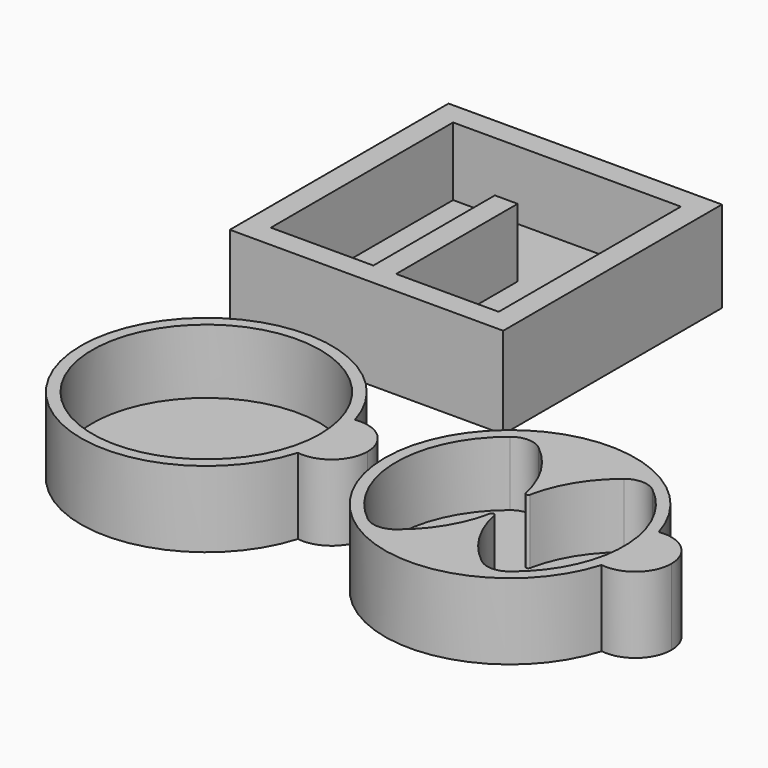
from build123d import *

# Parameters (mm, degrees)
F1_DEPTH  = 10
F3_R      = 15
F4_DEPTH  = 8.5
F7_DEPTH  = 8.5
F8_W      = 36
F8_H      = 36
F8_W_2    = 3
F8_H_2    = 20
F9_DEPTH  = 12
F10_DEPTH = 3


with BuildPart() as f1:
    # F0 (on Top) → F1 (new body)
    with BuildSketch(Plane.XY):
        with BuildLine():
            ThreePointArc((15.8162878788, -4.7005358987), (16.3281773325, -2.375), (16.5, 0))
            ThreePointArc((16.5, 0), (16.3281773325, 2.375), (15.8162878788, 4.7005358987))
            ThreePointArc((15.8162878788, 4.7005358987), (11.75, 0), (15.8162878788, -4.7005358987))
        make_face()
        with BuildLine():
            ThreePointArc((15.8162878788, 4.7005358987), (16.3281773325, 2.375), (16.5, 0))
            ThreePointArc((16.5, 0), (16.3281773325, -2.375), (15.8162878788, -4.7005358987))
            ThreePointArc((15.8162878788, -4.7005358987), (19.6076411814, -3.5923622156), (21.25, 0))
            ThreePointArc((21.25, 0), (19.6076411814, 3.5923622156), (15.8162878788, 4.7005358987))
        make_face()
        with BuildLine():
            ThreePointArc((15.8162878788, -4.7005358987), (11.75, 0), (15.8162878788, 4.7005358987))
            ThreePointArc((15.8162878788, 4.7005358987), (-16.5, 0), (15.8162878788, -4.7005358987))
        make_face()
    extrude(amount=F1_DEPTH)

    # F3 (on face) → F4 (cut, through all)
    with BuildSketch(Plane.XY.offset(10)):
        Circle(F3_R)
    extrude(amount=-F4_DEPTH, mode=Mode.SUBTRACT)


with BuildPart() as f5_1:
    # F5: copy of F1
    add(f1.part.moved(Location((40, 0, 0))))

    # F6 (on face) → F7 (join, through all)
    with BuildSketch(Plane.XY.offset(1.5)):
        with BuildLine():
            ThreePointArc((34.375, 11.709371247), (37.8149952792, 7.7958896859), (39.7087101354, 2.9417420271))
            ThreePointArc((39.7087101354, 2.9417420271), (39.8116681808, 2.770272112), (40, 2.7029414592))
            ThreePointArc((40, 2.7029414592), (40.1883318192, 2.770272112), (40.2912898646, 2.9417420271))
            ThreePointArc((40.2912898646, 2.9417420271), (42.1850047208, 7.7958896859), (45.625, 11.709371247))
            ThreePointArc((45.625, 11.709371247), (47.5, 12.3674969976), (49.375, 11.709371247))
            ThreePointArc((49.375, 11.709371247), (40, 15), (30.625, 11.709371247))
            ThreePointArc((30.625, 11.709371247), (32.5, 12.3674969976), (34.375, 11.709371247))
        make_face()
        with BuildLine():
            ThreePointArc((34.375, -11.709371247), (32.5, -12.3674969976), (30.625, -11.709371247))
            ThreePointArc((30.625, -11.709371247), (40, -15), (49.375, -11.709371247))
            ThreePointArc((49.375, -11.709371247), (47.5, -12.3674969976), (45.625, -11.709371247))
            ThreePointArc((45.625, -11.709371247), (42.1850047208, -7.7958896859), (40.2912898646, -2.9417420271))
            ThreePointArc((40.2912898646, -2.9417420271), (40.1883318192, -2.770272112), (40, -2.7029414592))
            ThreePointArc((40, -2.7029414592), (39.8116681808, -2.770272112), (39.7087101354, -2.9417420271))
            ThreePointArc((39.7087101354, -2.9417420271), (37.8149952792, -7.7958896859), (34.375, -11.709371247))
        make_face()
    extrude(amount=F7_DEPTH)


with BuildPart() as f9:
    # F8 (on Top) → F9 (new body)
    with BuildSketch(Plane.XY):
        with Locations((-0.2718451433, 44.7135615996)):
            Rectangle(F8_W, F8_H)
        Polygon((-15.2718451433, 29.7135615996), (-15.2718451433, 59.7135615996), (14.7281548567, 59.7135615996), (14.7281548567, 29.7135615996), (1.2281548567, 29.7135615996), (-1.7718451433, 29.7135615996), align=None, mode=Mode.SUBTRACT)
        with Locations((-0.2718451433, 39.7135615996)):
            Rectangle(F8_W_2, F8_H_2)
    extrude(amount=F9_DEPTH)

    # F8 (on Top) → F10 (join)
    with BuildSketch(Plane.XY):
        Polygon((14.7281548567, 59.7135615996), (-15.2718451433, 59.7135615996), (-15.2718451433, 29.7135615996), (-1.7718451433, 29.7135615996), (-1.7718451433, 49.7135615996), (1.2281548567, 49.7135615996), (1.2281548567, 29.7135615996), (14.7281548567, 29.7135615996), align=None)
    extrude(amount=F10_DEPTH)


solid = Compound([f1.part, f5_1.part, f9.part])
